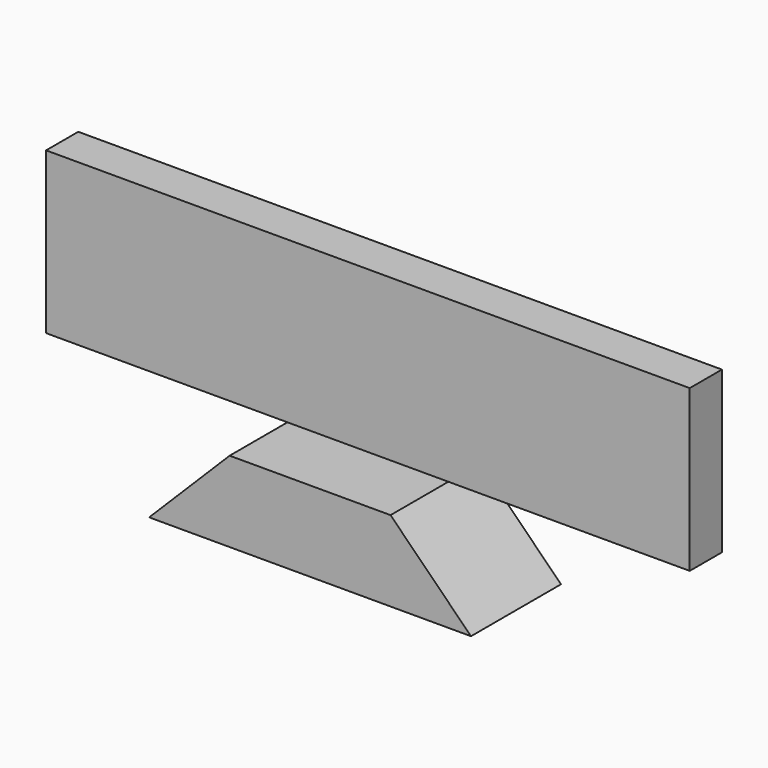
from build123d import *

# Parameters (mm, degrees)
F0_W     = 80
F0_H     = 20
F1_DEPTH = 5
F3_DEPTH = 13.98465


with BuildPart() as f1:
    # F0 (on Front) → F1 (new body)
    with BuildSketch(Plane.XZ):
        Rectangle(F0_W, F0_H)
    extrude(amount=F1_DEPTH)

    # F2 (on Front) → F3 (join)
    with BuildSketch(Plane.XZ):
        Polygon((0, -10), (0, -20), (20, -20), (10, -10), align=None)
        Polygon((-20, -20), (0, -20), (0, -10), (-10, -10), align=None)
    extrude(amount=F3_DEPTH)


solid = f1.part
